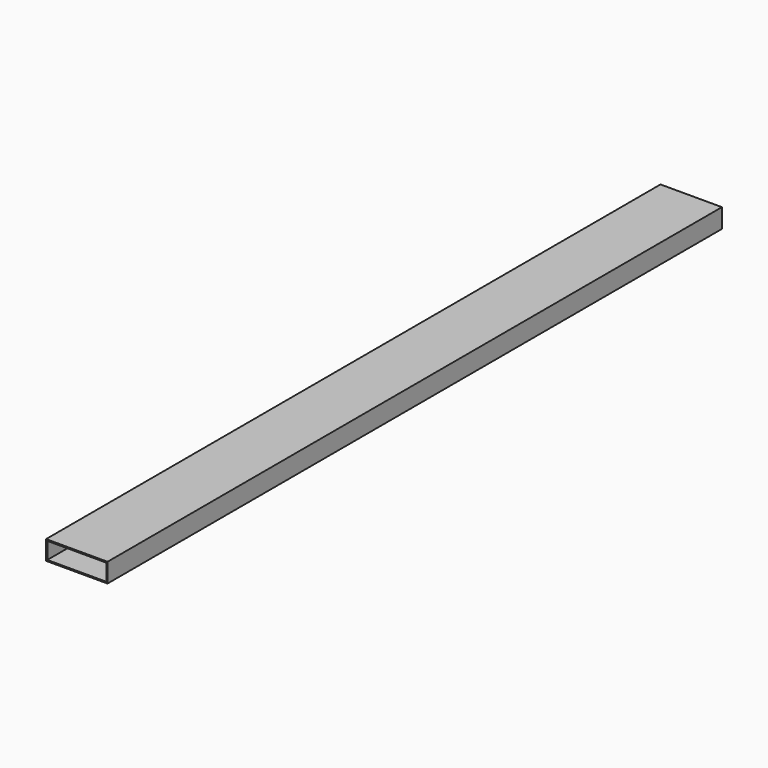
from build123d import *

# Parameters (mm, degrees)
F0_W     = 80
F0_H     = 25
F1_DEPTH = 500
F2_W     = 76.825
F2_H     = 21.825
F3_DEPTH = 1000


with BuildPart() as f1:
    # F0 (on Front) → F1 (new body, symmetric)
    with BuildSketch(Plane.XZ):
        Rectangle(F0_W, F0_H)
    extrude(amount=F1_DEPTH, both=True)

    # F2 (on face) → F3 (cut)
    with BuildSketch(Plane.XZ.offset(500)):
        Rectangle(F2_W, F2_H)
    extrude(amount=-F3_DEPTH, mode=Mode.SUBTRACT)


solid = f1.part
